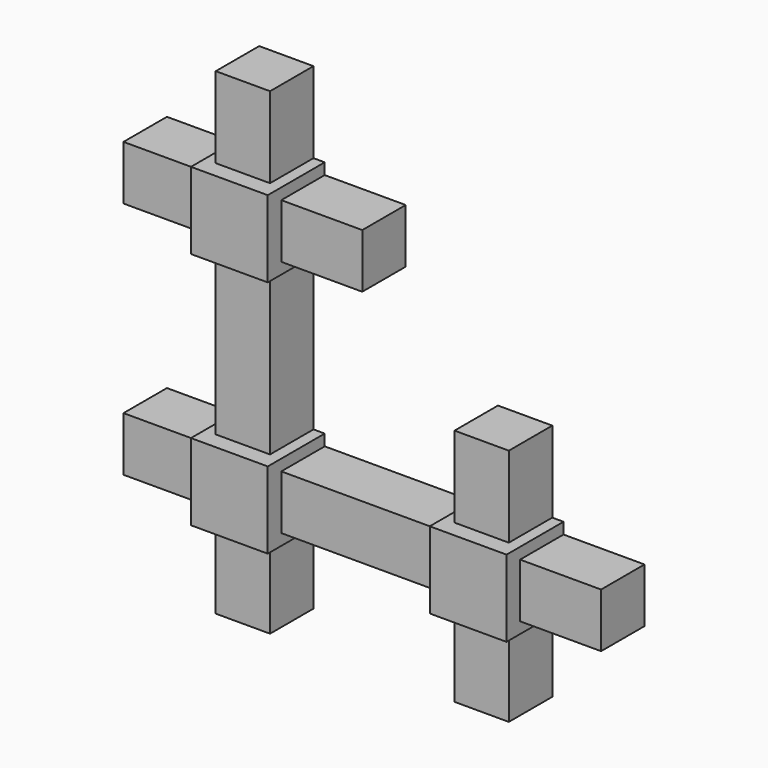
from build123d import *

# Parameters (mm, degrees)
F0_W      = 1.07834
F0_H      = 1.07834
F1_DEPTH  = 1
F2_W      = 0.7625
F2_H      = 0.7625
F3_DEPTH  = 1.1375
F4_W      = 0.7625
F4_H      = 0.7625
F5_DEPTH  = 1.1375
F6_W      = 0.7625
F6_H      = 0.7625
F7_DEPTH  = 1.1375
F8_W      = 0.7625
F8_H      = 0.7625
F9_DEPTH  = 2.275
F11_DEPTH = 1.07834
F12_W     = 0.7625
F12_H     = 0.7625
F13_DEPTH = 1.1375
F14_W     = 0.7625
F14_H     = 0.7625
F15_DEPTH = 1.1375
F16_W     = 0.7625
F16_H     = 0.7625
F17_DEPTH = 1.1375
F18_W     = 0.7625
F18_H     = 0.7625
F19_DEPTH = 1.1375
F21_DEPTH = 1.07834
F22_W     = 0.7625
F22_H     = 0.7625
F23_DEPTH = 1.1375
F24_W     = 0.7625
F24_H     = 0.7625
F25_DEPTH = 1.1375
F26_W     = 0.7625
F26_H     = 0.7625
F27_DEPTH = 1.1375


with BuildPart() as f1:
    # F0 (on Front) → F1 (new body)
    with BuildSketch(Plane.XZ):
        Rectangle(F0_W, F0_H)
    extrude(amount=F1_DEPTH)

    # F2 (on face) → F3 (join)
    with BuildSketch(Plane(origin=(0, 0, -0.53917), x_dir=(1, 0, 0), z_dir=(0, 0, -1))):
        with Locations((0, 0.38125)):
            Rectangle(F2_W, F2_H)
    extrude(amount=F3_DEPTH)

    # F4 (on face) → F5 (join)
    with BuildSketch(Plane(origin=(-0.53917, 0, 0), x_dir=(0, -1, 0), z_dir=(-1, 0, 0))):
        with Locations((0.38125, 0)):
            Rectangle(F4_W, F4_H)
    extrude(amount=F5_DEPTH)

    # F6 (on face) → F7 (join)
    with BuildSketch(Plane.YZ.offset(0.53917)):
        with Locations((-0.38125, 0)):
            Rectangle(F6_W, F6_H)
    extrude(amount=F7_DEPTH)

    # F8 (on face) → F9 (join)
    with BuildSketch(Plane.XY.offset(0.53917)):
        with Locations((0, -0.38125)):
            Rectangle(F8_W, F8_H)
    extrude(amount=F9_DEPTH)

    # F10 (on face) → F11 (join)
    with BuildSketch(Plane.XY.offset(2.81417)):
        Polygon((0.53917, 0), (0.38125, 0), (-0.53917, 0), (-0.53917, -1), (0.53917, -1), align=None)
    extrude(amount=F11_DEPTH)

    # F12 (on face) → F13 (join)
    with BuildSketch(Plane.YZ.offset(0.53917)):
        with Locations((-0.38125, 3.35334)):
            Rectangle(F12_W, F12_H)
    extrude(amount=F13_DEPTH)

    # F14 (on face) → F15 (join)
    with BuildSketch(Plane.XY.offset(3.89251)):
        with Locations((0, -0.38125)):
            Rectangle(F14_W, F14_H)
    extrude(amount=F15_DEPTH)

    # F16 (on face) → F17 (join)
    with BuildSketch(Plane(origin=(-0.53917, 0, 0), x_dir=(0, -1, 0), z_dir=(-1, 0, 0))):
        with Locations((0.38125, 3.35334)):
            Rectangle(F16_W, F16_H)
    extrude(amount=F17_DEPTH)

    # F18 (on face) → F19 (join)
    with BuildSketch(Plane.YZ.offset(1.67667)):
        with Locations((-0.38125, 0)):
            Rectangle(F18_W, F18_H)
    extrude(amount=F19_DEPTH)

    # F20 (on face) → F21 (join)
    with BuildSketch(Plane.YZ.offset(2.81417)):
        Polygon((0, -0.53917), (0, -0.38125), (0, 0.53917), (-1, 0.53917), (-1, -0.53917), align=None)
    extrude(amount=F21_DEPTH)

    # F22 (on face) → F23 (join)
    with BuildSketch(Plane(origin=(0, 0, -0.53917), x_dir=(1, 0, 0), z_dir=(0, 0, -1))):
        with Locations((3.35334, 0.38125)):
            Rectangle(F22_W, F22_H)
    extrude(amount=F23_DEPTH)

    # F24 (on face) → F25 (join)
    with BuildSketch(Plane.YZ.offset(3.89251)):
        with Locations((-0.38125, 0)):
            Rectangle(F24_W, F24_H)
    extrude(amount=F25_DEPTH)

    # F26 (on face) → F27 (join)
    with BuildSketch(Plane.XY.offset(0.53917)):
        with Locations((3.35334, -0.38125)):
            Rectangle(F26_W, F26_H)
    extrude(amount=F27_DEPTH)


solid = f1.part
